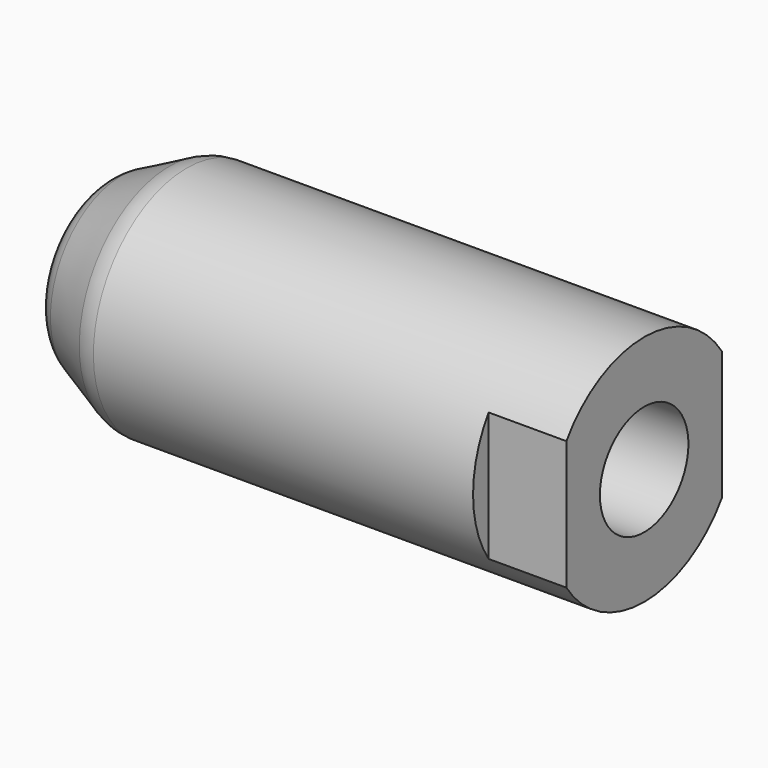
from build123d import *

# Parameters (mm, degrees)
F0_R     = 38.1
F1_DEPTH = 177.8
F4_D     = 36.11626
F4_DEPTH = 63.5
F4_TIP   = 10.8504191703
F5_SIZE2 = 12.7
F5_SIZE  = 25.4
F6_R     = 12.7
F7_W     = 25.4
F7_H     = 6.35
F8_DEPTH = 50.8


with BuildPart() as f1:
    # F0 (on Right) → F1 (new body)
    with BuildSketch(Plane.YZ):
        Circle(F0_R)
    extrude(amount=-F1_DEPTH)

    # F4
    with Locations(Plane.YZ):
        with Locations((0, 0)):
            Hole(F4_D / 2, depth=F4_DEPTH)
            with Locations((0, 0, -(F4_DEPTH + F4_TIP / 2))):  # 118° drill point
                Cone(0, F4_D / 2, F4_TIP, mode=Mode.SUBTRACT)

    # F5
    f5_edges = [f1.edges().sort_by_distance(p)[0] for p in [
        (-177.8, -38.1, 0),
    ]]
    f5_side = f1.faces().sort_by_distance((-88.9, -38.1, 0))[0]
    chamfer(f5_edges, length=F5_SIZE, length2=F5_SIZE2, reference=f5_side)

    # F6
    f6_edges = [f1.edges().sort_by_distance(p)[0] for p in [
        (-177.8, -25.4, 0),
        (-152.4, -38.1, 0),
    ]]
    fillet(f6_edges, radius=F6_R)

    # F7 (on Top) → F8 (cut, symmetric)
    with BuildSketch(Plane.XY):
        with Locations((-12.7, 34.925)):
            Rectangle(F7_W, F7_H)
        with Locations((-12.7, -34.925)):
            Rectangle(F7_W, F7_H)
    extrude(amount=F8_DEPTH, both=True, mode=Mode.SUBTRACT)


solid = f1.part
